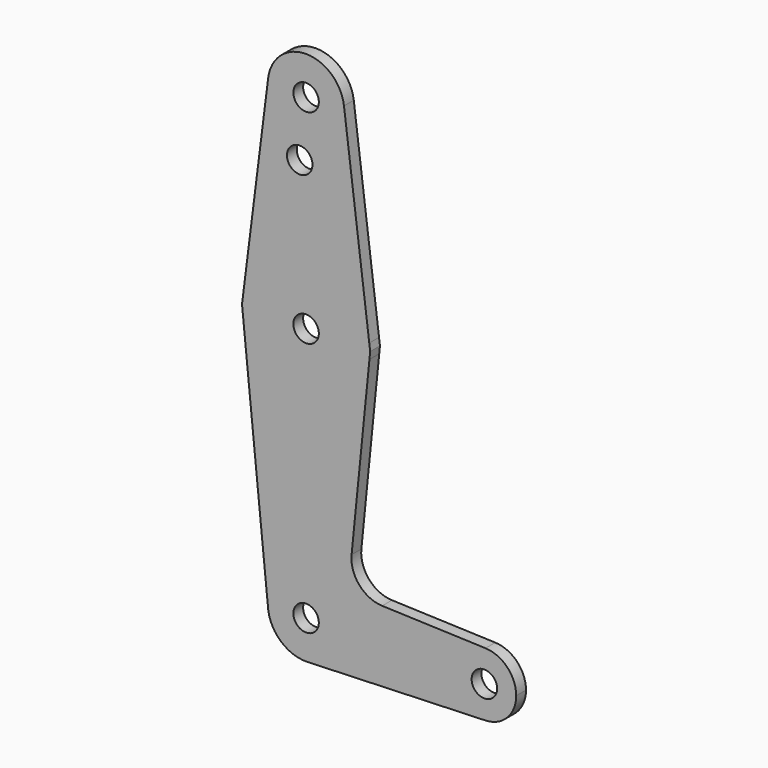
from build123d import *

# Parameters (mm, degrees)
F0_R     = 3.175
F1_DEPTH = 3.048


with BuildPart() as f1:
    # F0 (on Front) → F1 (new body)
    with BuildSketch(Plane.XZ):
        with BuildLine():
            ThreePointArc((-9.4502929642, 115.490625), (-0.596483242, 104.7936951058), (9.525, 114.3))
            ThreePointArc((9.525, 114.3), (9.5063048942, 114.896483242), (9.4502929642, 115.490625))
            ThreePointArc((9.4502929642, 115.490625), (0, 123.825), (-9.4502929642, 115.490625))
        make_face()
        with Locations((0, 114.3)):
            Circle(F0_R, mode=Mode.SUBTRACT)
        with BuildLine():
            ThreePointArc((9.4502929642, 115.490625), (9.5063048942, 114.896483242), (9.525, 114.3))
            ThreePointArc((9.525, 114.3), (-0.596483242, 104.7936951058), (-9.4502929642, 115.490625))
            Line((-9.4502929642, 115.490625), (-15.7504882695, 65.4843750333))
            ThreePointArc((-15.7504882695, 65.4843750333), (1.97e-07, 79.375), (15.7504883187, 65.4843746425))
            Line((15.7504883187, 65.4843746425), (9.4502929642, 115.490625))
        make_face()
        with Locations((-1.5875, 100.0252)):
            Circle(F0_R, mode=Mode.SUBTRACT)
        with BuildLine():
            Line((15.9751747256, 63.7009815757), (15.7504883187, 65.4843746425))
            ThreePointArc((15.7504883187, 65.4843746425), (15.8438415017, 64.4941385568), (15.875, 63.5))
            ThreePointArc((15.875, 63.5), (15.8550939004, 62.7052532414), (15.7954255231, 61.9124995924))
            Line((15.7954255231, 61.9124995924), (15.9751747256, 63.7009815757))
        make_face()
        with BuildLine():
            ThreePointArc((15.875, 63.5), (15.8438415017, 64.4941385568), (15.7504883187, 65.4843746425))
            ThreePointArc((15.7504883187, 65.4843746425), (1.97e-07, 79.375), (-15.7504882695, 65.4843750333))
            ThreePointArc((-15.7504882695, 65.4843750333), (-15.8737438153, 63.6997054958), (-15.7954255625, 61.9124999847))
            ThreePointArc((-15.7954255625, 61.9124999847), (-1.971e-07, 47.625), (15.7954255231, 61.9124995924))
            ThreePointArc((15.7954255231, 61.9124995924), (15.8550939004, 62.7052532414), (15.875, 63.5))
        make_face()
        with Locations((0, 63.5)):
            Circle(F0_R, mode=Mode.SUBTRACT)
        with BuildLine():
            ThreePointArc((-15.7954255625, 61.9124999847), (-15.8737438153, 63.6997054958), (-15.7504882695, 65.4843750333))
            Line((-15.7504882695, 65.4843750333), (-15.9751747256, 63.7009815757))
            Line((-15.9751747256, 63.7009815757), (-15.7954255625, 61.9124999847))
        make_face()
        with BuildLine():
            ThreePointArc((15.7954255231, 61.9124995924), (-1.971e-07, 47.625), (-15.7954255625, 61.9124999847))
            Line((-15.7954255625, 61.9124999847), (-9.5729851903, 0))
            Line((-9.5729851903, 0), (-9.525, 0))
            ThreePointArc((-9.525, 0), (0, 9.525), (9.525, 0))
            ThreePointArc((9.525, 0), (6.8544083519, -6.6138272691), (0.3401787622, -9.5189234375))
            Line((0.3401787622, -9.5189234375), (44.7324052772, -7.9324746877))
            ThreePointArc((44.7324052746, -7.9324746146), (36.5125000183, 0.0005387766), (44.7334821429, 7.9324362036))
            Line((44.7334821429, 7.9324362036), (18.9676000005, 8.8532337108))
            ThreePointArc((18.9676000005, 8.8532337108), (13.2611998974, 11.5713591498), (11.3411865923, 17.5933818124))
            Line((11.3411865923, 17.5933818124), (15.7954255231, 61.9124995924))
        make_face()
        with BuildLine():
            ThreePointArc((9.525, 0), (0, 9.525), (-9.525, 0))
            ThreePointArc((-9.525, 0), (-6.6138272691, -6.8544083519), (0.3401787622, -9.5189234375))
            ThreePointArc((0.3401787622, -9.5189234375), (6.8544083519, -6.6138272691), (9.525, 0))
        make_face()
        Circle(F0_R, mode=Mode.SUBTRACT)
        with BuildLine():
            ThreePointArc((52.3875, 0), (50.1620069047, 5.5115227815), (44.7334821429, 7.9324362036))
            ThreePointArc((44.7334821429, 7.9324362036), (36.5125000183, 0.0005387766), (44.7324052746, -7.9324746146))
            ThreePointArc((44.7324052746, -7.9324746146), (50.1616327839, -5.5119104847), (52.3875, 0))
        make_face()
        with Locations((44.45, 0)):
            Circle(F0_R, mode=Mode.SUBTRACT)
    extrude(amount=F1_DEPTH)


solid = f1.part
